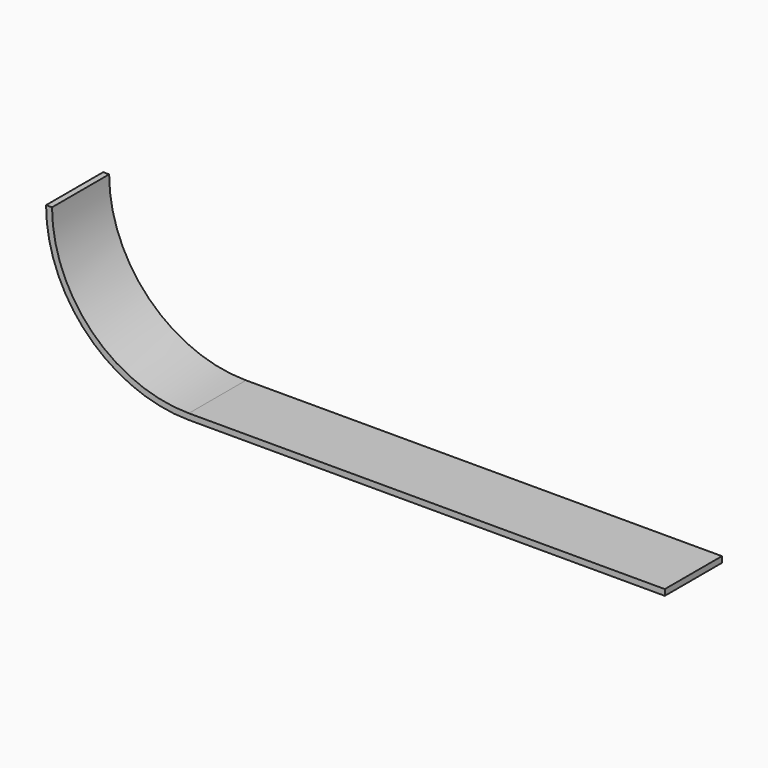
from build123d import *

# Parameters (mm, degrees)
F1_DEPTH = 38.1


with BuildPart() as f1:
    # F0 (on Front) → F1 (new body)
    with BuildSketch(Plane.XZ):
        with BuildLine():
            Line((-254, 0), (0, 0))
            Line((0, 0), (0, 3.175))
            Line((0, 3.175), (-254, 3.175))
            ThreePointArc((-254, 3.175), (-305.636473, 24.563527), (-327.025, 76.2))
            Line((-327.025, 76.2), (-330.2, 76.2))
            ThreePointArc((-330.2, 76.2), (-307.881537, 22.318463), (-254, 0))
        make_face()
    extrude(amount=F1_DEPTH)


solid = f1.part
